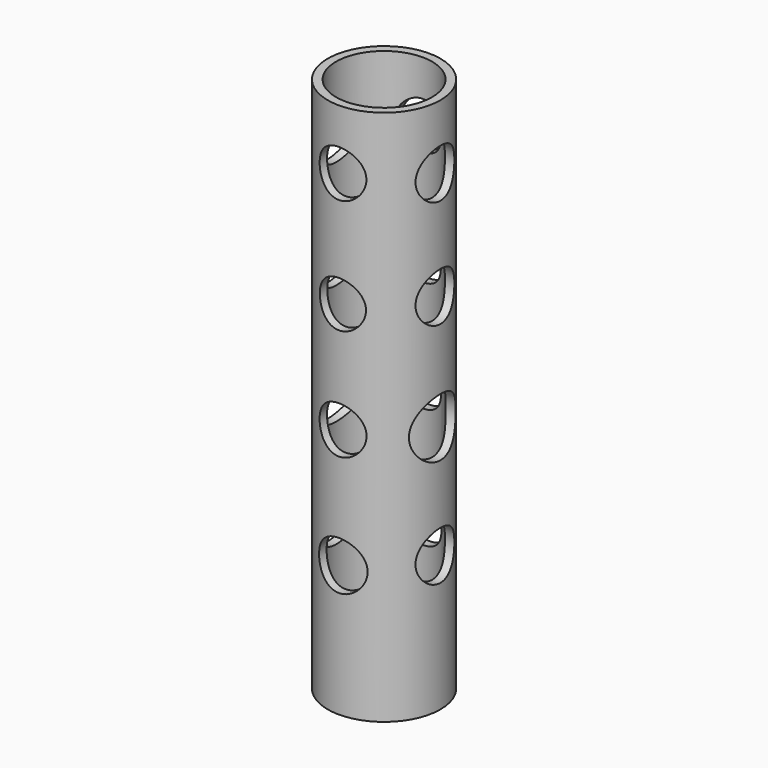
from build123d import *

# Parameters (mm, degrees)
F0_R     = 7.355647
F1_DEPTH = 70
F2_R     = 3.16709
F2_R_2   = 3.167096
F2_R_3   = 3.811053
F2_R_4   = 3.167092
F3_DEPTH = 14.8
F4_DEPTH = 35.1
F5_R     = 6.272123
F6_DEPTH = 105
F7_R     = 3.050947
F7_R_2   = 3.011241
F7_R_3   = 3.06407
F7_R_4   = 3.167092
F8_DEPTH = 25
F9_DEPTH = 36.2


with BuildPart() as f1:
    # F0 (on Top) → F1 (new body)
    with BuildSketch(Plane.XY):
        Circle(F0_R)
    extrude(amount=F1_DEPTH)

    # F2 (on Right) → F3 (cut)
    with BuildSketch(Plane.YZ):
        with Locations((0, 61.611962)):
            Circle(F2_R)
        with Locations((0, 47.448292)):
            Circle(F2_R_2)
        with Locations((0, 32.434803)):
            Circle(F2_R_3)
        with Locations((0, 17.704586)):
            Circle(F2_R_4)
    extrude(amount=-F3_DEPTH, mode=Mode.SUBTRACT)

    # F2 (on Right) → F4 (cut)
    with BuildSketch(Plane.YZ):
        with Locations((0, 61.611962)):
            Circle(F2_R)
        with Locations((0, 47.448292)):
            Circle(F2_R_2)
        with Locations((0, 32.434803)):
            Circle(F2_R_3)
        with Locations((0, 17.704586)):
            Circle(F2_R_4)
    extrude(amount=F4_DEPTH, mode=Mode.SUBTRACT)

    # F5 (on face) → F6 (cut)
    with BuildSketch(Plane.XY.offset(70)):
        Circle(F5_R)
    extrude(amount=-F6_DEPTH, mode=Mode.SUBTRACT)

    # F7 (on Front) → F8 (cut)
    with BuildSketch(Plane.XZ):
        with Locations((0, 62.178511)):
            Circle(F7_R)
        with Locations((0, 47.165021)):
            Circle(F7_R_2)
        with Locations((0, 32.718077)):
            Circle(F7_R_3)
        with Locations((0, 17.13804)):
            Circle(F7_R_4)
    extrude(amount=-F8_DEPTH, mode=Mode.SUBTRACT)

    # F7 (on Front) → F9 (cut)
    with BuildSketch(Plane.XZ):
        with Locations((0, 62.178511)):
            Circle(F7_R)
        with Locations((0, 47.165021)):
            Circle(F7_R_2)
        with Locations((0, 32.718077)):
            Circle(F7_R_3)
        with Locations((0, 17.13804)):
            Circle(F7_R_4)
    extrude(amount=F9_DEPTH, mode=Mode.SUBTRACT)


solid = f1.part
